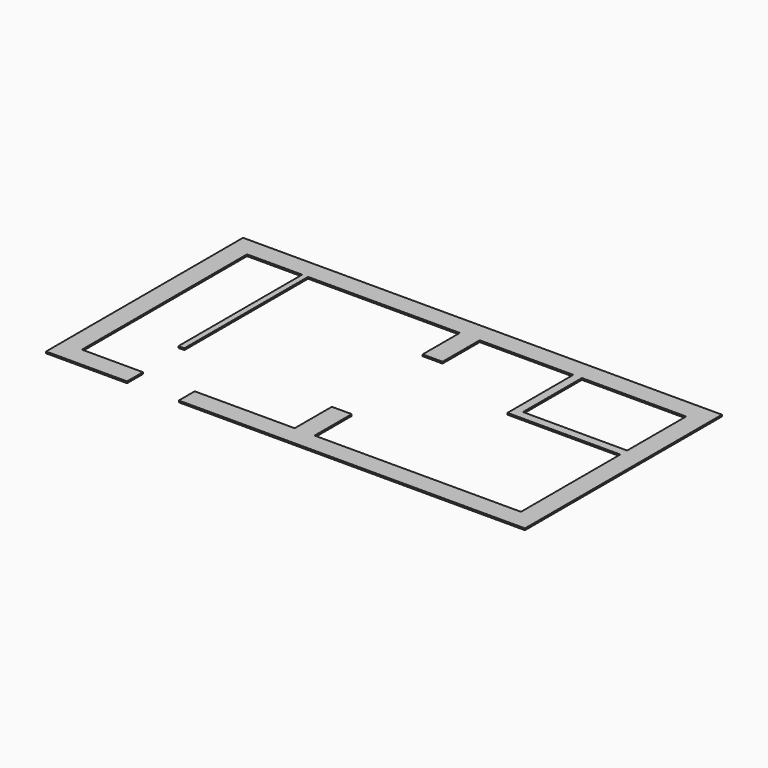
from build123d import *

# Parameters (mm, degrees)
F0_W     = 1570
F0_H     = 1110
F1_DEPTH = 25


with BuildPart() as f1:
    # F0 (on Top) → F1 (new body)
    with BuildSketch(Plane.XY):
        Polygon((0, -1240), (0, -3110), (-3110, -3110), (-3110, -2410), (-3410, -2410), (-3410, -3110), (-4916, -3110), (-4916, -3410), (300, -3410), (300, 300), (-6916, 300), (-6916, -3410), (-5696, -3410), (-5696, -3110), (-6616, -3110), (-6616, 0), (-5786, 0), (-5786, -2330), (-5696, -2330), (-5696, 0), (-3410, 0), (-3410, -700), (-3110, -700), (-3110, 0), (-1700, 0), (-1700, -1240), align=None)
        with Locations((-785, -555)):
            Rectangle(F0_W, F0_H, mode=Mode.SUBTRACT)
    extrude(amount=F1_DEPTH)


solid = f1.part
